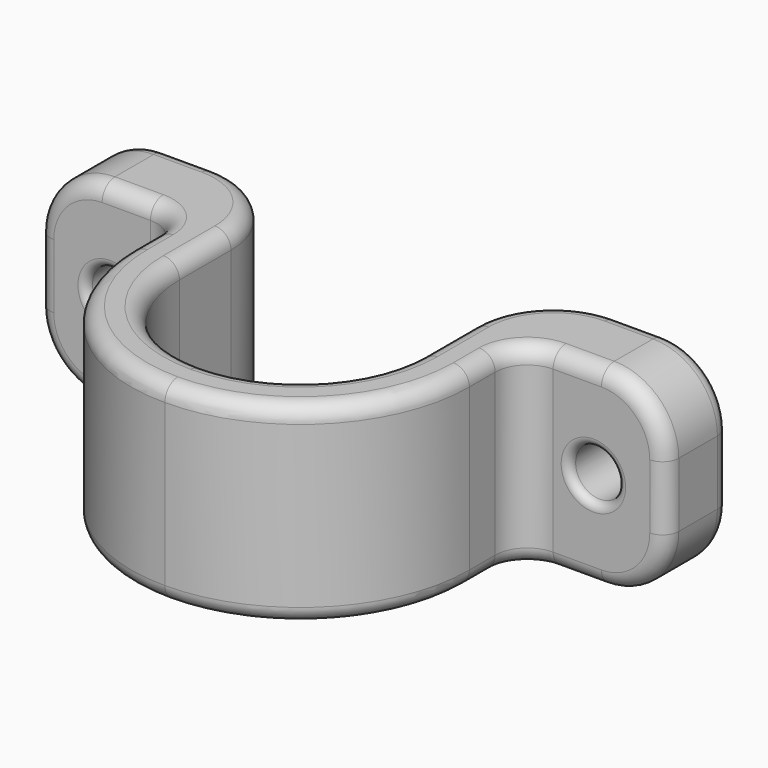
from build123d import *

# Parameters (mm, degrees)
F1_DEPTH = 12
F2_R     = 1.5
F3_DEPTH = 5.001
F4_R     = 5
F5_R     = 2
F6_R     = 4
F7_R     = 1
F8_R     = 0.5


with BuildPart() as f1:
    # F0 (on Top) → F1 (new body)
    with BuildSketch(Plane.XY):
        with BuildLine():
            ThreePointArc((7.5, 0), (5.3033008589, -5.3033008589), (0, -7.5))
            Line((0, -7.5), (0, -10.5))
            ThreePointArc((0, -10.5), (7.4246212025, -7.4246212025), (10.5, 0))
            Line((10.5, 0), (10.5, 4))
            Line((10.5, 4), (19.5, 4))
            Line((19.5, 4), (19.5, 9))
            Line((19.5, 9), (7.5, 9))
            Line((7.5, 9), (7.5, 0))
        make_face()
    extrude(amount=F1_DEPTH)

    # F2 (on face) → F3 (cut, through all)
    with BuildSketch(Plane.XZ.offset(-4)):
        with Locations((15, 6)):
            Circle(F2_R)
    extrude(amount=-F3_DEPTH, mode=Mode.SUBTRACT)

    # F4
    f4_edges = [f1.edges().sort_by_distance(p)[0] for p in [
        (7.5, 9, 6),
    ]]
    fillet(f4_edges, radius=F4_R)

    # F5
    f5_edges = [f1.edges().sort_by_distance(p)[0] for p in [
        (10.5, 4, 6),
    ]]
    fillet(f5_edges, radius=F5_R)

    # F6
    f6_edges = [f1.edges().sort_by_distance(p)[0] for p in [
        (19.5, 6.5, 0),
        (19.5, 6.5, 12),
    ]]
    fillet(f6_edges, radius=F6_R)

    # F7
    f7_edges = [f1.edges().sort_by_distance(p)[0] for p in [
        (7.424621, -7.424621, 0),
        (8.964466, 7.535534, 0),
    ]]
    fillet(f7_edges, radius=F7_R)

    # F8
    f8_edges = [f1.edges().sort_by_distance(p)[0] for p in [
        (13.5, 4, 6),
        (13.5, 9, 6),
    ]]
    fillet(f8_edges, radius=F8_R)

    # F9: F1 across face


with BuildPart() as f1_1:
    add(f1.part)
    add(f1.part.mirror(Plane(origin=(0, -9, 6), x_dir=(0, -1, 0), z_dir=(-1, 0, 0))))


solid = f1_1.part
